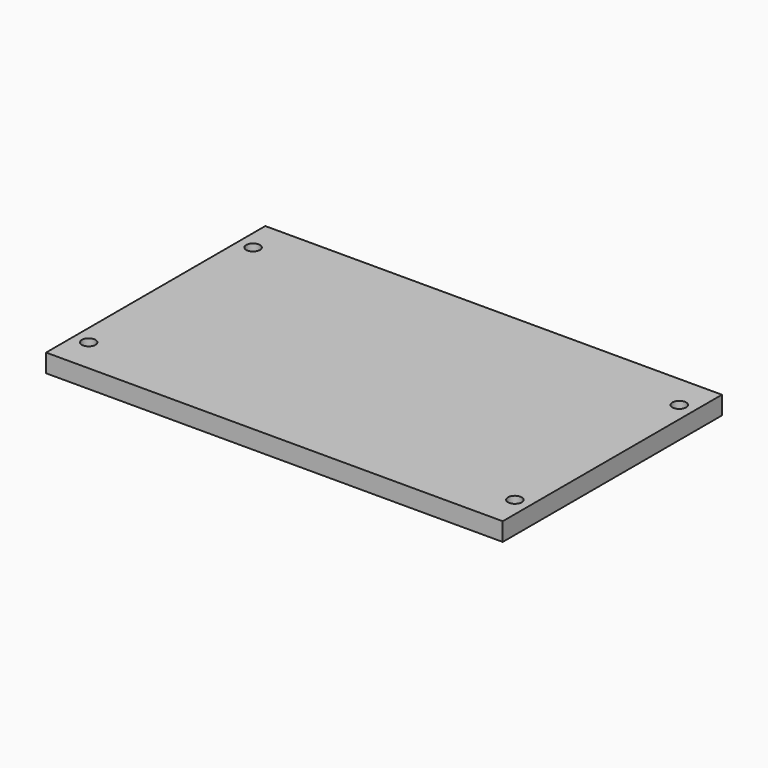
from build123d import *

# Parameters (mm, degrees)
SKETCH003_W     = 300
SKETCH003_H     = 180
PAD002_DEPTH    = 12
SKETCH004_R     = 4.5
POCKET_DEPTH    = 7
SKETCH005_R     = 1.7
POCKET001_DEPTH = 12.001


with BuildPart() as part:
    # Sketch003 → Pad002 (new body)
    with BuildSketch(Plane.XY):
        Rectangle(SKETCH003_W, SKETCH003_H)
    extrude(amount=PAD002_DEPTH)

    # Sketch004 (on Face6 of Pad002) → Pocket (cut)
    with BuildSketch(Plane.XY.offset(12)):
        with Locations((-140, 67.5)):
            Circle(SKETCH004_R)
        with Locations((-140, -67.5)):
            Circle(SKETCH004_R)
        with Locations((140, -67.5)):
            Circle(SKETCH004_R)
        with Locations((140, 67.5)):
            Circle(SKETCH004_R)
    extrude(amount=-POCKET_DEPTH, mode=Mode.SUBTRACT)

    # Sketch005 (on Face5 of Pocket) → Pocket001 (cut, through all)
    with BuildSketch(Plane.XY.offset(12)):
        with Locations((-140, 67.5)):
            Circle(SKETCH005_R)
        with Locations((-140, -67.5)):
            Circle(SKETCH005_R)
        with Locations((140, -67.5)):
            Circle(SKETCH005_R)
        with Locations((140, 67.5)):
            Circle(SKETCH005_R)
    extrude(amount=-POCKET001_DEPTH, mode=Mode.SUBTRACT)


with BuildPart() as part_1:
    # Body002 placement: moved
    add(part.part.moved(Location((0, 0, 64))))


solid = part_1.part
